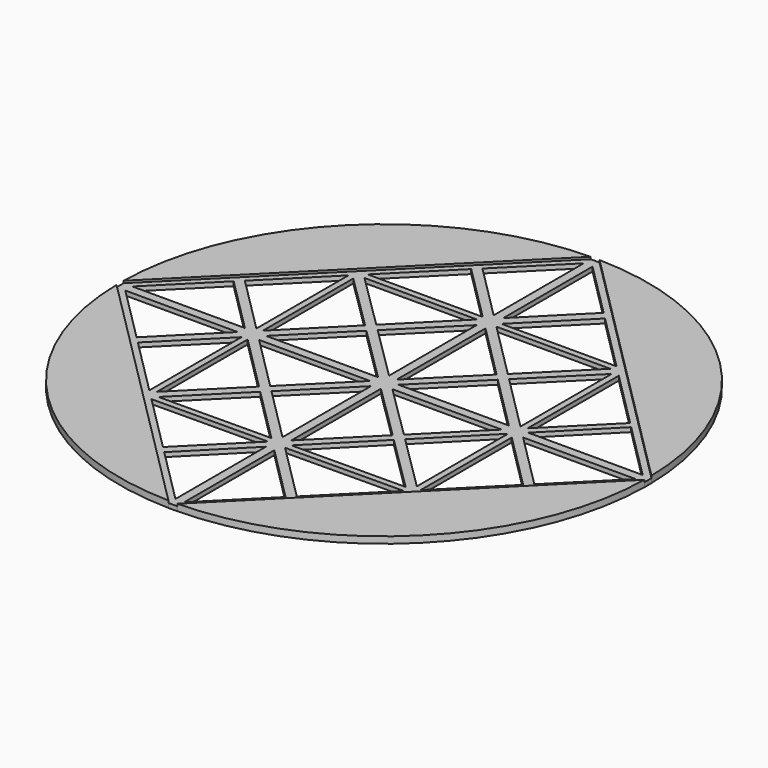
from build123d import *

# Parameters (mm, degrees)
F1_DEPTH = 0.5
F2_DEPTH = 0.75


with BuildPart() as f1:
    # F0 (on Top) → F1 (new body)
    with BuildSketch(Plane.XY):
        with BuildLine():
            ThreePointArc((29.9959010885, -0.4959010884), (29.9989752546, -0.247959014), (30, 0))
            ThreePointArc((30, 0), (29.9989752546, 0.2479590141), (29.9959010885, 0.4959010885))
            ThreePointArc((29.9959010885, 0.4959010885), (29.9958671362, 0.4979505454), (29.9958330439, 0.5))
            ThreePointArc((29.9958330439, 0.5), (29.9957976483, 0.5021189497), (29.9957621031, 0.5042378969))
            Line((29.9957621031, 0.5042378969), (0.5042378969, 29.9957621031))
            ThreePointArc((0.5042378969, 29.9957621031), (0.5021189497, 29.9957976483), (0.5, 29.9958330439))
            ThreePointArc((0.5, 29.9958330439), (0.4979505454, 29.9958671362), (0.4959010885, 29.9959010885))
            ThreePointArc((0.4959010885, 29.9959010885), (0, 30), (-0.4959010885, 29.9959010885))
            ThreePointArc((-0.4959010885, 29.9959010885), (-0.4979505454, 29.9958671362), (-0.5, 29.9958330439))
            ThreePointArc((-0.5, 29.9958330439), (-0.5021189497, 29.9957976483), (-0.5042378969, 29.9957621031))
            Line((-0.5042378969, 29.9957621031), (-29.9957621031, 0.5042378969))
            ThreePointArc((-29.9957621031, 0.5042378969), (-29.9957976483, 0.5021189497), (-29.9958330439, 0.5))
            ThreePointArc((-29.9958330439, 0.5), (-29.9958671362, 0.4979505455), (-29.9959010885, 0.4959010886))
            ThreePointArc((-29.9959010885, 0.4959010886), (-30, 1e-10), (-29.9959010885, -0.4959010884))
            ThreePointArc((-29.9959010885, -0.4959010884), (-29.9958671362, -0.4979505453), (-29.9958330439, -0.4999999999))
            ThreePointArc((-29.9958330439, -0.4999999999), (-29.9957976483, -0.5021189497), (-29.9957621031, -0.5042378969))
            Line((-29.9957621031, -0.5042378969), (-0.5042378969, -29.9957621031))
            ThreePointArc((-0.5042378969, -29.9957621031), (-0.5021189497, -29.9957976483), (-0.5, -29.9958330439))
            ThreePointArc((-0.5, -29.9958330439), (-0.4979505454, -29.9958671362), (-0.4959010885, -29.9959010885))
            ThreePointArc((-0.4959010885, -29.9959010885), (1.6e-09, -30), (0.4959010917, -29.9959010884))
            ThreePointArc((0.4959010917, -29.9959010884), (0.497950547, -29.9958671362), (0.5, -29.9958330439))
            ThreePointArc((0.5, -29.9958330439), (0.5021189497, -29.9957976483), (0.5042378969, -29.9957621031))
            Line((0.5042378969, -29.9957621031), (29.9957621031, -0.5042378969))
            ThreePointArc((29.9957621031, -0.5042378969), (29.9957976483, -0.5021189497), (29.9958330439, -0.5))
            ThreePointArc((29.9958330439, -0.5), (29.9958671362, -0.4979505454), (29.9959010885, -0.4959010884))
        make_face()
        Polygon((-0.4999999985, -28.9999999984), (-6.8976368761, -22.6023631214), (-0.4999999992, -16.1435156014), align=None, mode=Mode.SUBTRACT)
        Polygon((-0.9606463591, -15.253539578), (-7.6035533893, -21.8964466082), (-14.1500740262, -15.349925972), align=None, mode=Mode.SUBTRACT)
        Polygon((-15.3535533902, -1.0606601714), (-15.3535533898, -14.1464466085), (-21.8964466089, -7.6035533901), align=None, mode=Mode.SUBTRACT)
        Polygon((-16.2388987995, -0.5), (-22.6041527374, -6.8958472617), (-28.9999999999, -0.4999999999), align=None, mode=Mode.SUBTRACT)
        Polygon((-1.1603910767, -14.5467157044), (-13.9276378166, -14.6364271465), (-7.4916261871, -8.2154805941), align=None, mode=Mode.SUBTRACT)
        Polygon((-8.1987320116, -7.5083747696), (-14.6464466094, -13.9409951753), (-14.6464466094, -1.0606601718), align=None, mode=Mode.SUBTRACT)
        Polygon((-6.783690857, -7.5092023618), (-0.5, -1.2402200376), (-0.4999999993, -13.7928932195), align=None, mode=Mode.SUBTRACT)
        Polygon((-13.7928932189, -0.5), (-1.1739120379, -0.5), (-7.4907965869, -6.8020966319), align=None, mode=Mode.SUBTRACT)
        Polygon((0.5, -16.2071067812), (6.8964466094, -22.6035533906), (0.5, -29), align=None, mode=Mode.SUBTRACT)
        Polygon((0.9467076968, -15.2396009156), (14.3584098275, -15.1415901725), (7.6035533906, -21.8964466094), align=None, mode=Mode.SUBTRACT)
        Polygon((14.0112935653, -14.4401090307), (1.0973812984, -14.5308510455), (7.5382237147, -8.0283846086), align=None, mode=Mode.SUBTRACT)
        Polygon((0.5, -13.7928932189), (0.5, -1.0568622983), (6.8983340381, -7.3945591808), align=None, mode=Mode.SUBTRACT)
        Polygon((14.7168418348, -0.7810836543), (14.7168418349, -13.7281676466), (8.2432305686, -7.3166324636), align=None, mode=Mode.SUBTRACT)
        Polygon((1.360599895, -0.5), (13.7928932189, -0.5), (7.6066937554, -6.6861994634), align=None, mode=Mode.SUBTRACT)
        Polygon((15.4256417891, -1.1327485702), (21.8964466095, -7.6035533905), (15.4256417891, -14.0743582109), align=None, mode=Mode.SUBTRACT)
        Polygon((29, -0.5), (22.6035533906, -6.8964466094), (16.2071067811, -0.5), align=None, mode=Mode.SUBTRACT)
        Polygon((-29, 0.5), (-22.6035533906, 6.8964466094), (-16.2071067813, 0.5), align=None, mode=Mode.SUBTRACT)
        Polygon((-21.8964466094, 7.6035533906), (-15.3535533906, 14.1464466094), (-15.3535533903, 1.0606601714), align=None, mode=Mode.SUBTRACT)
        Polygon((-13.7928932187, 0.5), (-7.4626086697, 6.8302845491), (-1.0717578841, 0.5000000001), align=None, mode=Mode.SUBTRACT)
        Polygon((-14.6464466094, 1.1001059941), (-14.6464466094, 13.9460410951), (-8.2084439991, 7.5690515803), align=None, mode=Mode.SUBTRACT)
        Polygon((-13.9325727794, 14.6465249656), (-1.1641236528, 14.6472290479), (-7.5026392249, 8.2782486645), align=None, mode=Mode.SUBTRACT)
        Polygon((-6.7550575733, 7.5378356455), (-0.5, 13.7928932188), (-0.5, 1.3427584231), align=None, mode=Mode.SUBTRACT)
        Polygon((-1.0606601718, 15.3535533906), (-14.1464466094, 15.3535533906), (-7.6035533906, 21.8964466094), align=None, mode=Mode.SUBTRACT)
        Polygon((-6.8964466094, 22.6035533906), (-0.5, 29), (-0.5, 16.2071067812), align=None, mode=Mode.SUBTRACT)
        Polygon((0.5000000005, 1.1699933855), (0.500000001, 13.7928932188), (6.8188461713, 7.4740470475), align=None, mode=Mode.SUBTRACT)
        Polygon((13.7928932184, 0.4999999994), (1.2443030111, 0.499999999), (7.5259499895, 6.7669432292), align=None, mode=Mode.SUBTRACT)
        Polygon((14.7168418348, 0.9902649463), (8.2338853191, 7.473221462), (14.7168418347, 13.941003014), align=None, mode=Mode.SUBTRACT)
        Polygon((14.0096987803, 14.6480657682), (7.5267815959, 8.1803251852), (1.0597551034, 14.6473516778), align=None, mode=Mode.SUBTRACT)
        Polygon((15.9857846309, 0.5000000004), (22.4619115095, 7.0380884906), (29, 0.5), align=None, mode=Mode.SUBTRACT)
        Polygon((15.4256417891, 1.1327485702), (15.4256417891, 14.074358211), (21.8964466094, 7.6035533906), align=None, mode=Mode.SUBTRACT)
        Polygon((1.0606601718, 15.3535533906), (7.6035533906, 21.8964466094), (14.1464466094, 15.3535533907), align=None, mode=Mode.SUBTRACT)
        Polygon((0.5, 16.3193509792), (0.5, 29), (6.825124286, 22.674875714), align=None, mode=Mode.SUBTRACT)
    extrude(amount=F1_DEPTH)

    # F0 (on Top) → F2 (join)
    with BuildSketch(Plane.XY):
        with BuildLine():
            ThreePointArc((0.5042378969, -29.9957621031), (21.2132034356, -21.2132034356), (29.9957621031, -0.5042378969))
            Line((29.9957621031, -0.5042378969), (0.5042378969, -29.9957621031))
        make_face()
        with BuildLine():
            Line((0.5042378969, 29.9957621031), (29.9957621031, 0.5042378969))
            ThreePointArc((29.9957621031, 0.5042378969), (21.2132034356, 21.2132034356), (0.5042378969, 29.9957621031))
        make_face()
        with BuildLine():
            Line((-29.9957621031, 0.5042378969), (-0.5042378969, 29.9957621031))
            ThreePointArc((-0.5042378969, 29.9957621031), (-21.2132034356, 21.2132034356), (-29.9957621031, 0.5042378969))
        make_face()
        with BuildLine():
            ThreePointArc((-29.9957621031, -0.5042378969), (-21.2132034356, -21.2132034356), (-0.5042378969, -29.9957621031))
            Line((-0.5042378969, -29.9957621031), (-29.9957621031, -0.5042378969))
        make_face()
    extrude(amount=F2_DEPTH)


solid = f1.part
